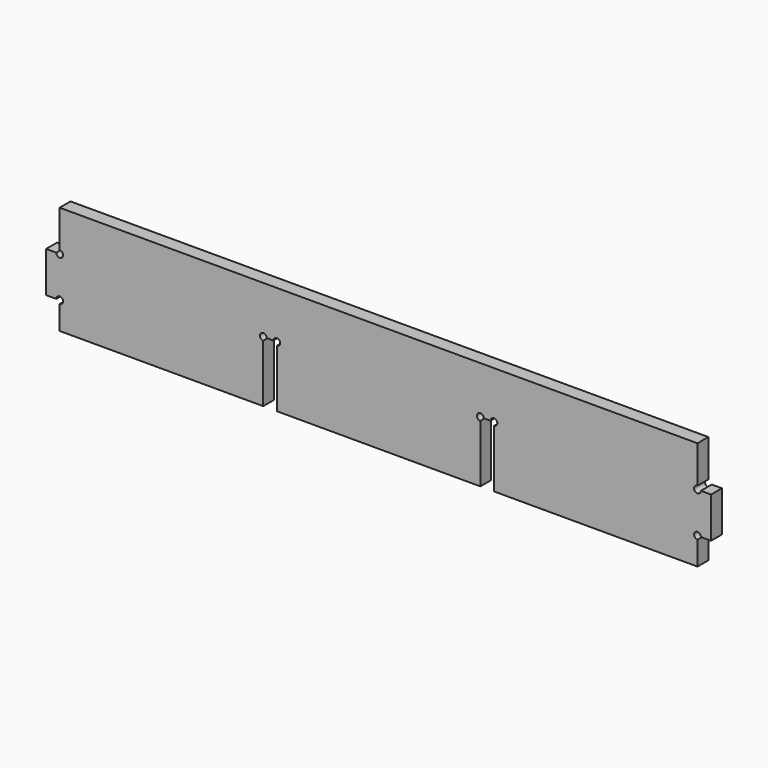
from build123d import *

# Parameters (mm, degrees)
F1_DEPTH = 6.35


with BuildPart() as f1:
    # F0 (on Front) → F1 (new body)
    with BuildSketch(Plane.XZ):
        with BuildLine():
            Line((146.913078, 21.906945), (-151.536922, 21.906945))
            Line((-151.536922, 21.906945), (-151.536922, 4.444445))
            ThreePointArc((-151.536922, 4.444445), (-150.41439, 3.979477), (-149.949422, 2.856945))
            ThreePointArc((-149.949422, 2.856945), (-150.41439, 1.734413), (-151.536922, 1.269445))
            Line((-151.536922, 1.269445), (-151.536922, -14.605555))
            ThreePointArc((-151.536922, -14.605555), (-150.41439, -15.070523), (-149.949422, -16.193055))
            ThreePointArc((-149.949422, -16.193055), (-150.41439, -17.315587), (-151.536922, -17.780555))
            Line((-151.536922, -17.780555), (-151.536922, -28.893055))
            Line((-151.536922, -28.893055), (-56.286922, -28.893055))
            Line((-56.286922, -28.893055), (-56.286922, -1.905555))
            ThreePointArc((-56.286922, -1.905555), (-57.409454, 0.804477), (-54.699422, -0.318055))
            Line((-54.699422, -0.318055), (-51.524422, -0.318055))
            ThreePointArc((-51.524422, -0.318055), (-49.936922, 1.269445), (-48.349422, -0.318055))
            ThreePointArc((-48.349422, -0.318055), (-48.81439, -1.440587), (-49.936922, -1.905555))
            Line((-49.936922, -1.905555), (-49.936922, -28.893055))
            Line((-49.936922, -28.893055), (45.313078, -28.893055))
            Line((45.313078, -28.893055), (45.313078, -1.905555))
            ThreePointArc((45.313078, -1.905555), (44.190546, 0.804477), (46.900578, -0.318055))
            Line((46.900578, -0.318055), (50.075578, -0.318055))
            ThreePointArc((50.075578, -0.318055), (51.663078, 1.269445), (53.250578, -0.318055))
            ThreePointArc((53.250578, -0.318055), (52.78561, -1.440587), (51.663078, -1.905555))
            Line((51.663078, -1.905555), (51.663078, -28.893055))
            Line((51.663078, -28.893055), (146.913078, -28.893055))
            Line((146.913078, -28.893055), (146.913078, -17.780555))
            ThreePointArc((146.913078, -17.780555), (145.325578, -16.193055), (146.913078, -14.605555))
            Line((146.913078, -14.605555), (146.913078, 1.269445))
            ThreePointArc((146.913078, 1.269445), (145.325578, 2.856945), (146.913078, 4.444445))
            Line((146.913078, 4.444445), (146.913078, 21.906945))
        make_face()
        with BuildLine():
            Line((153.263078, 2.856945), (148.500578, 2.856945))
            ThreePointArc((148.500578, 2.856945), (148.03561, 1.734413), (146.913078, 1.269445))
            Line((146.913078, 1.269445), (146.913078, -14.605555))
            ThreePointArc((146.913078, -14.605555), (148.03561, -15.070523), (148.500578, -16.193055))
            Line((148.500578, -16.193055), (153.263078, -16.193055))
            Line((153.263078, -16.193055), (153.263078, 2.856945))
        make_face()
        with BuildLine():
            ThreePointArc((-151.536922, 1.269445), (-152.659454, 1.734413), (-153.124422, 2.856945))
            Line((-153.124422, 2.856945), (-157.886922, 2.856945))
            Line((-157.886922, 2.856945), (-157.886922, -16.193055))
            Line((-157.886922, -16.193055), (-153.124422, -16.193055))
            ThreePointArc((-153.124422, -16.193055), (-152.659454, -15.070523), (-151.536922, -14.605555))
            Line((-151.536922, -14.605555), (-151.536922, 1.269445))
        make_face()
    extrude(amount=F1_DEPTH)


solid = f1.part
